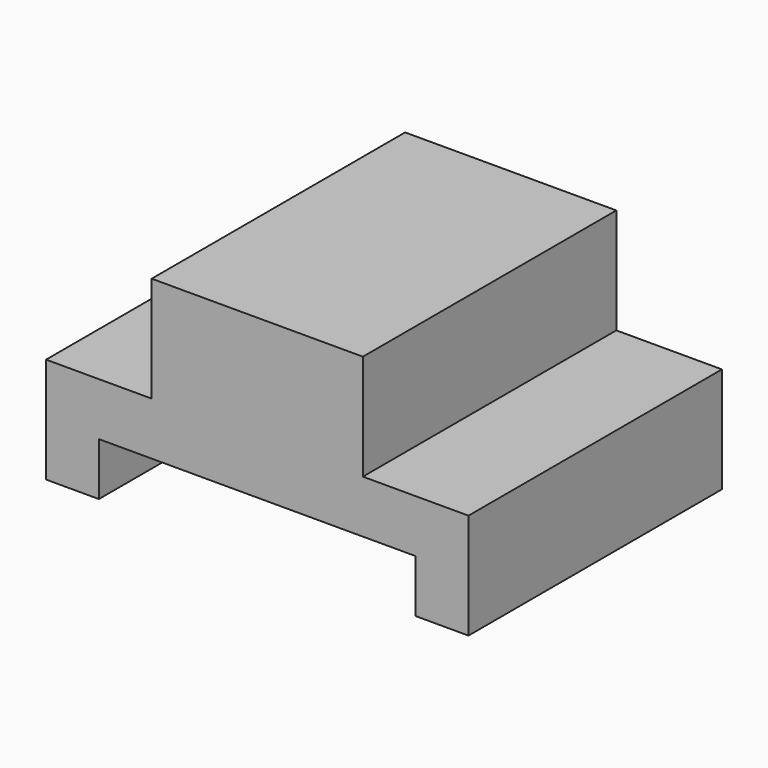
from build123d import *

# Parameters (mm, degrees)
F0_W     = 80
F0_H     = 40
F1_DEPTH = 60
F2_W     = 20
F2_H     = 20
F3_DEPTH = 60.001
F2_W_2   = 60
F2_H_2   = 10
F4_DEPTH = 60.001


with BuildPart() as f1:
    # F0 (on Front) → F1 (new body)
    with BuildSketch(Plane.XZ):
        Rectangle(F0_W, F0_H)
    extrude(amount=F1_DEPTH)

    # F2 (on face) → F3 (cut, through all)
    with BuildSketch(Plane.XZ.offset(60)):
        with Locations((30, 10)):
            Rectangle(F2_W, F2_H)
        with Locations((-30, 10)):
            Rectangle(F2_W, F2_H)
    extrude(amount=-F3_DEPTH, mode=Mode.SUBTRACT)

    # F2 (on face) → F4 (cut, through all)
    with BuildSketch(Plane.XZ.offset(60)):
        with Locations((0, -15)):
            Rectangle(F2_W_2, F2_H_2)
    extrude(amount=-F4_DEPTH, mode=Mode.SUBTRACT)


solid = f1.part
